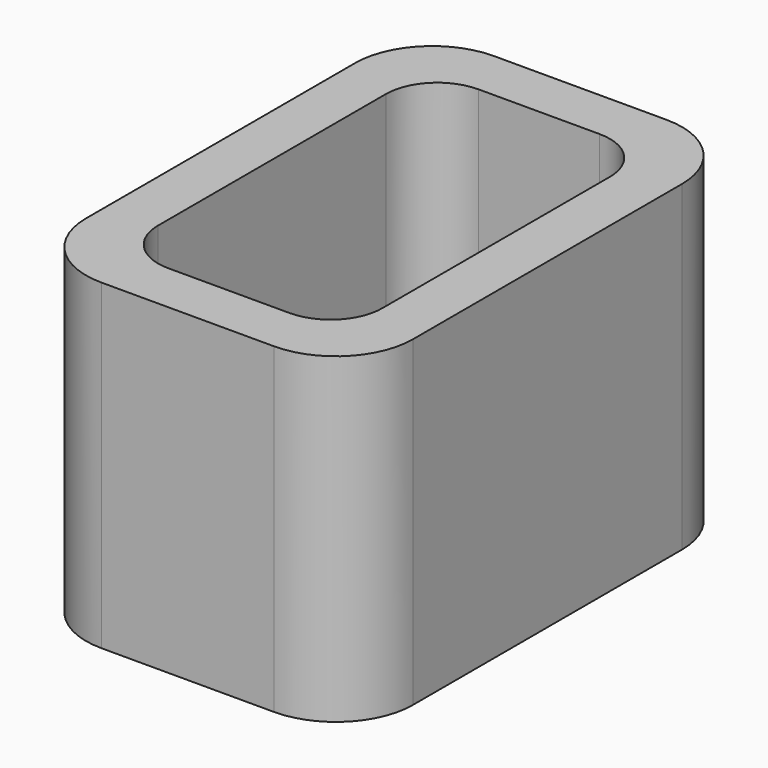
from build123d import *

# Parameters (mm, degrees)
EXTRUDE_DEPTH = 50


with BuildPart() as part:
    # Sketch → Extrude (new body)
    with BuildSketch(Plane.XY):
        with BuildLine():
            Line((-13.4, 38.1), (13.4, 38.1))
            ThreePointArc((25.4, 26.1), (21.885281, 34.585281), (13.4, 38.1))
            Line((25.4, 26.1), (25.4, -26.1))
            ThreePointArc((13.4, -38.1), (21.885281, -34.585281), (25.4, -26.1))
            Line((13.4, -38.1), (-13.4, -38.1))
            ThreePointArc((-25.4, -26.1), (-21.885281, -34.585281), (-13.4, -38.1))
            Line((-25.4, -26.1), (-25.4, 26.1))
            ThreePointArc((-13.4, 38.1), (-21.885281, 34.585281), (-25.4, 26.1))
        make_face()
        with BuildLine():
            Line((-9.4, 30.1), (9.4, 30.1))
            ThreePointArc((17.4, 22.1), (15.056854, 27.756854), (9.4, 30.1))
            Line((17.4, 22.1), (17.4, -22.1))
            ThreePointArc((9.4, -30.1), (15.056854, -27.756854), (17.4, -22.1))
            Line((9.4, -30.1), (-9.4, -30.1))
            ThreePointArc((-17.4, -22.1), (-15.056854, -27.756854), (-9.4, -30.1))
            Line((-17.4, -22.1), (-17.4, 22.1))
            ThreePointArc((-9.4, 30.1), (-15.056854, 27.756854), (-17.4, 22.1))
        make_face(mode=Mode.SUBTRACT)
    extrude(amount=EXTRUDE_DEPTH)


solid = part.part
